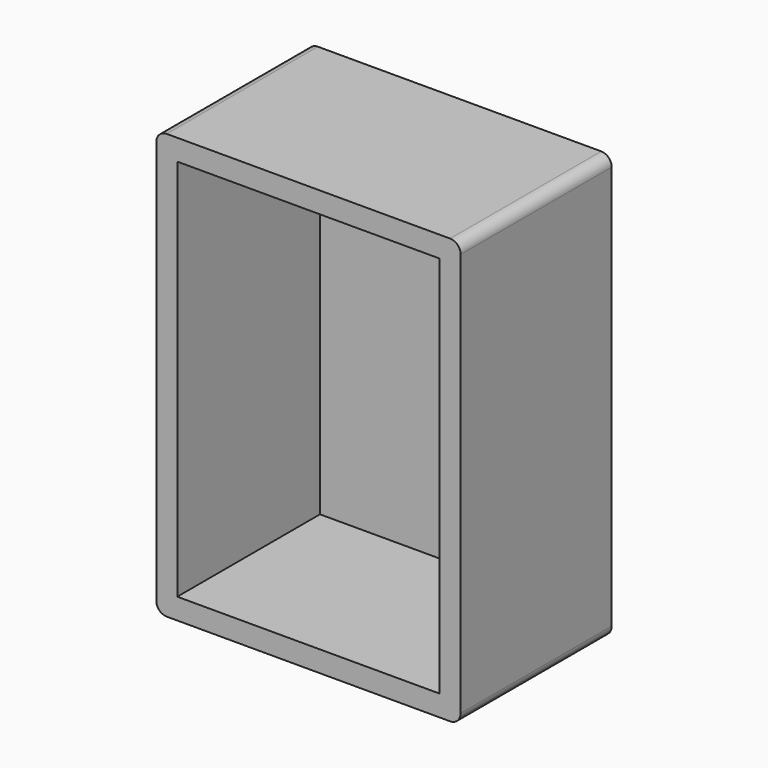
from build123d import *

# Parameters (mm, degrees)
F0_W     = 29
F0_H     = 40.5
F1_DEPTH = 18
F2_W     = 25
F2_H     = 36.5
F3_DEPTH = 17
F5_R     = 2.25
F6_DEPTH = 5
F7_R     = 1
F8_R     = 1


with BuildPart() as f1:
    # F0 (on Front) → F1 (new body)
    with BuildSketch(Plane.XZ):
        with Locations((14.5, 20.25)):
            Rectangle(F0_W, F0_H)
    extrude(amount=F1_DEPTH)

    # F2 (on face) → F3 (cut)
    with BuildSketch(Plane.XZ.offset(18)):
        with Locations((14.5, 20.25)):
            Rectangle(F2_W, F2_H)
    extrude(amount=-F3_DEPTH, mode=Mode.SUBTRACT)

    # F5 (on face) → F6 (join)
    with BuildSketch(Plane.XZ.offset(1)):
        with Locations((23.25, 34.4)):
            Circle(F5_R)
    extrude(amount=F6_DEPTH)

    # F7
    f7_edges = [f1.edges().sort_by_distance(p)[0] for p in [
        (0, -9, 0),
        (29, -9, 0),
        (0, -9, 40.5),
        (29, -9, 40.5),
    ]]
    fillet(f7_edges, radius=F7_R)

    # F8
    f8_edges = [f1.edges().sort_by_distance(p)[0] for p in [
        (21, -6, 34.4),
    ]]
    fillet(f8_edges, radius=F8_R)


solid = f1.part
